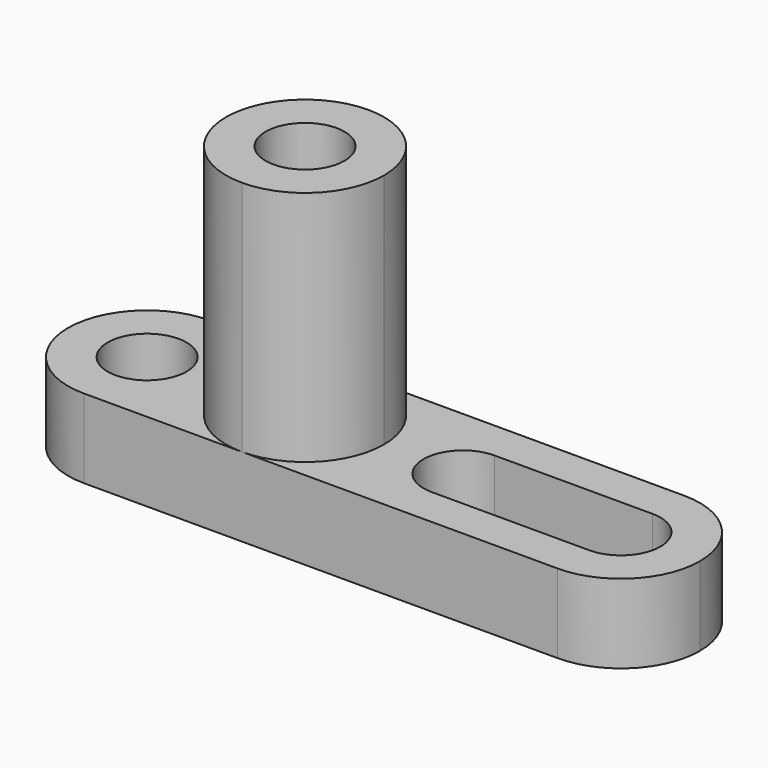
from build123d import *

# Parameters (mm, degrees)
F1_DEPTH = 25.4
F2_R     = 6.35
F3_DEPTH = 25.4
F4_R     = 6.35
F5_DEPTH = 38.1
F7_DEPTH = 25.4


with BuildPart() as f1:
    # F0 (on Front) → F1 (new body)
    with BuildSketch(Plane.XZ):
        Polygon((0, 12.7), (0, 0), (101.6, 0), (101.6, 12.7), (50.8, 12.7), (50.8, 50.8), (25.4, 50.8), (25.4, 12.7), align=None)
    extrude(amount=F1_DEPTH)

    # F2 (on face) → F3 (cut)
    with BuildSketch(Plane.XY.offset(12.7)):
        with Locations((12.7, -12.7)):
            Circle(F2_R)
        with BuildLine():
            ThreePointArc((0, -12.7), (3.719744, -3.719744), (12.7, 0))
            Line((12.7, 0), (0, 0))
            Line((0, 0), (0, -12.7))
        make_face()
        with BuildLine():
            ThreePointArc((12.7, -25.4), (3.719744, -21.680256), (0, -12.7))
            Line((0, -12.7), (0, -25.4))
            Line((0, -25.4), (12.7, -25.4))
        make_face()
    extrude(amount=-F3_DEPTH, mode=Mode.SUBTRACT)

    # F4 (on face) → F5 (cut)
    with BuildSketch(Plane.XY.offset(50.8)):
        with BuildLine():
            ThreePointArc((38.1, 0), (47.080256, -3.719744), (50.8, -12.7))
            Line((50.8, -12.7), (50.8, 0))
            Line((50.8, 0), (38.1, 0))
        make_face()
        with Locations((38.1, -12.7)):
            Circle(F4_R)
        with BuildLine():
            ThreePointArc((25.4, -12.7), (29.119744, -3.719744), (38.1, 0))
            Line((38.1, 0), (25.4, 0))
            Line((25.4, 0), (25.4, -12.7))
        make_face()
        with BuildLine():
            Line((25.4, -25.4), (38.1, -25.4))
            ThreePointArc((38.1, -25.4), (29.119744, -21.680256), (25.4, -12.7))
            Line((25.4, -12.7), (25.4, -25.4))
        make_face()
        with BuildLine():
            Line((50.8, -25.4), (50.8, -12.7))
            ThreePointArc((50.8, -12.7), (47.080256, -21.680256), (38.1, -25.4))
            Line((38.1, -25.4), (50.8, -25.4))
        make_face()
    extrude(amount=-F5_DEPTH, mode=Mode.SUBTRACT)

    # F6 (on face) → F7 (cut)
    with BuildSketch(Plane.XY.offset(12.7)):
        with BuildLine():
            ThreePointArc((88.9, -19.05), (82.55, -12.7), (88.9, -6.35))
            Line((88.9, -6.35), (63.5, -6.35))
            ThreePointArc((63.5, -6.35), (67.990128, -8.209872), (69.85, -12.7))
            ThreePointArc((69.85, -12.7), (67.990128, -17.190128), (63.5, -19.05))
            Line((63.5, -19.05), (88.9, -19.05))
        make_face()
        with BuildLine():
            ThreePointArc((69.85, -12.7), (67.990128, -8.209872), (63.5, -6.35))
            ThreePointArc((63.5, -6.35), (57.15, -12.7), (63.5, -19.05))
            ThreePointArc((63.5, -19.05), (67.990128, -17.190128), (69.85, -12.7))
        make_face()
        with BuildLine():
            ThreePointArc((88.9, -19.05), (93.390128, -17.190128), (95.25, -12.7))
            ThreePointArc((95.25, -12.7), (93.390128, -8.209872), (88.9, -6.35))
            ThreePointArc((88.9, -6.35), (82.55, -12.7), (88.9, -19.05))
        make_face()
        with BuildLine():
            ThreePointArc((101.6, -12.7), (97.880256, -21.680256), (88.9, -25.4))
            Line((88.9, -25.4), (101.6, -25.4))
            Line((101.6, -25.4), (101.6, -12.7))
        make_face()
        with BuildLine():
            ThreePointArc((88.9, 0), (97.880256, -3.719744), (101.6, -12.7))
            Line((101.6, -12.7), (101.6, 0))
            Line((101.6, 0), (88.9, 0))
        make_face()
    extrude(amount=-F7_DEPTH, mode=Mode.SUBTRACT)


solid = f1.part
